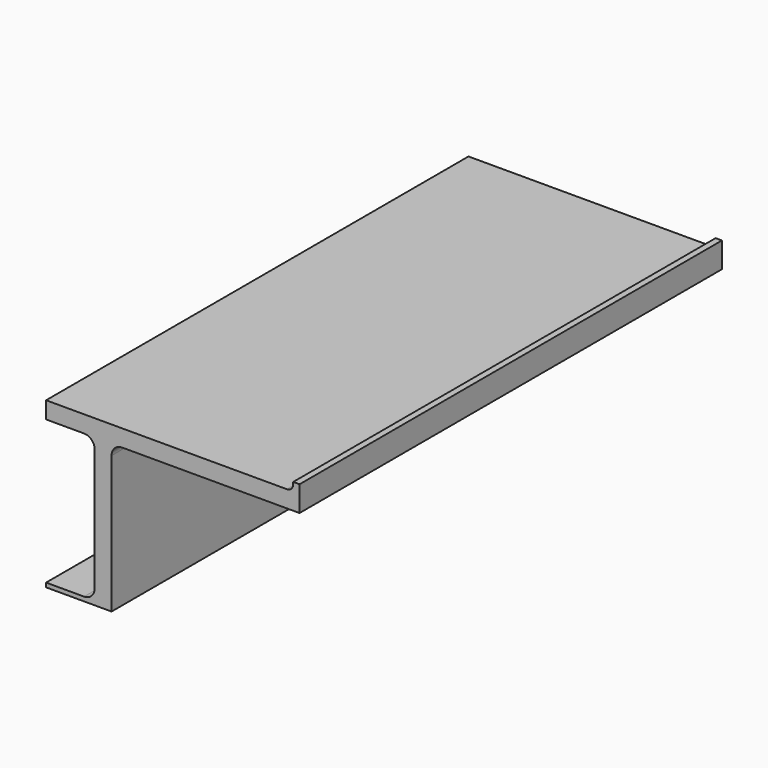
from build123d import *

# Parameters (mm, degrees)
PAD_DEPTH   = 250
FILLET_R    = 5
FILLET001_R = 5
FILLET002_R = 5
FILLET003_R = 3


with BuildPart() as part:
    # Sketch → Pad (new body)
    with BuildSketch(Plane.XZ):
        Polygon((57, 77), (-60, 77), (-60, 69), (-37, 69), (-37, 1), (-60, 1), (-60, -1), (-37, -1), (-29, -1), (-29, 69), (60, 69), (60, 77), (60, 81), (57, 81), align=None)
    extrude(amount=PAD_DEPTH)

    # Fillet
    fillet_edges = [part.edges().sort_by_distance(p)[0] for p in [
        (-29, -125, 69),
    ]]
    fillet(fillet_edges, radius=FILLET_R)

    # Fillet001
    fillet001_edges = [part.edges().sort_by_distance(p)[0] for p in [
        (-37, -125, 69),
    ]]
    fillet(fillet001_edges, radius=FILLET001_R)

    # Fillet002
    fillet002_edges = [part.edges().sort_by_distance(p)[0] for p in [
        (-37, -125, 1),
    ]]
    fillet(fillet002_edges, radius=FILLET002_R)

    # Fillet003
    fillet003_edges = [part.edges().sort_by_distance(p)[0] for p in [
        (57, -125, 77),
    ]]
    fillet(fillet003_edges, radius=FILLET003_R)


solid = part.part
